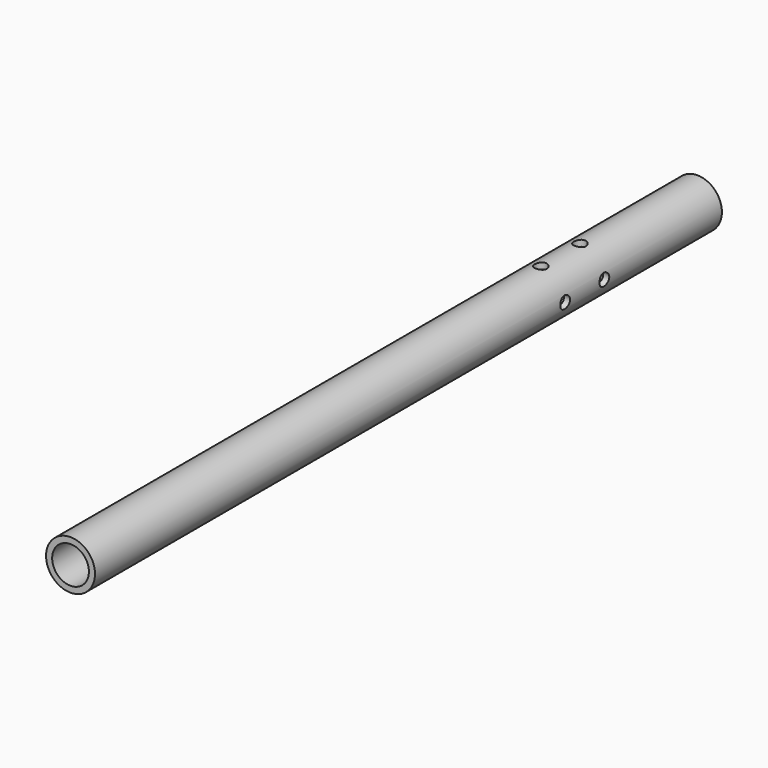
from build123d import *

# Parameters (mm, degrees)
F0_R     = 12.7
F0_R_2   = 9.525
F1_DEPTH = 406.4
F2_R     = 3.175
F3_DEPTH = 12.7
F4_R     = 3.175
F5_DEPTH = 12.7


with BuildPart() as f1:
    # F0 (on Front) → F1 (new body)
    with BuildSketch(Plane.XZ):
        Circle(F0_R)
        Circle(F0_R_2, mode=Mode.SUBTRACT)
    extrude(amount=F1_DEPTH)

    # F2 (on Right) → F3 (cut, symmetric)
    with BuildSketch(Plane.YZ):
        with Locations((-101.6, 0)):
            Circle(F2_R)
        with Locations((-76.2, 0)):
            Circle(F2_R)
    extrude(amount=F3_DEPTH, both=True, mode=Mode.SUBTRACT)

    # F4 (on Top) → F5 (cut, symmetric)
    with BuildSketch(Plane.XY):
        with Locations((0, -76.2)):
            Circle(F4_R)
        with Locations((0, -101.6)):
            Circle(F4_R)
    extrude(amount=F5_DEPTH, both=True, mode=Mode.SUBTRACT)


solid = f1.part
